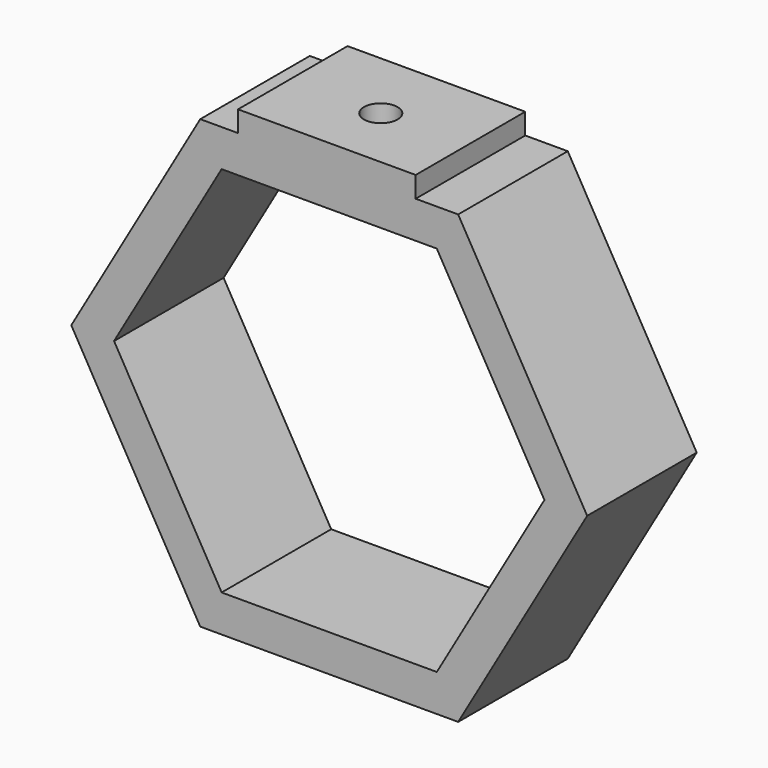
from build123d import *

# Parameters (mm, degrees)
F1_DEPTH = 39.878
F3_DEPTH = 58.42
F4_W     = 51.730605
F4_H     = 39.878
F5_DEPTH = 6.096
F6_R     = 4.89455
F7_DEPTH = 25.4


with BuildPart() as f1:
    # F0 (on Front) → F1 (new body)
    with BuildSketch(Plane.XZ):
        Polygon((37.552367, 65.042607), (-37.552367, 65.042607), (-75.104734, 0), (-37.552367, -65.042607), (37.552367, -65.042607), (75.104734, 0), align=None)
    extrude(amount=F1_DEPTH)

    # F2 (on face) → F3 (cut)
    with BuildSketch(Plane.XZ.offset(39.878)):
        Polygon((31.326826, 54.259654), (-31.326826, 54.259654), (-62.653652, 0), (-31.326826, -54.259654), (31.326826, -54.259654), (62.653652, 0), align=None)
    extrude(amount=-F3_DEPTH, mode=Mode.SUBTRACT)

    # F4 (on face) → F5 (join)
    with BuildSketch(Plane.XY.offset(65.042607)):
        with Locations((-0.68974, -19.939)):
            Rectangle(F4_W, F4_H)
    extrude(amount=F5_DEPTH)

    # F6 (on face) → F7 (cut)
    with BuildSketch(Plane.XY.offset(71.138607)):
        with Locations((0, -21.113751)):
            Circle(F6_R)
    extrude(amount=-F7_DEPTH, mode=Mode.SUBTRACT)


solid = f1.part
